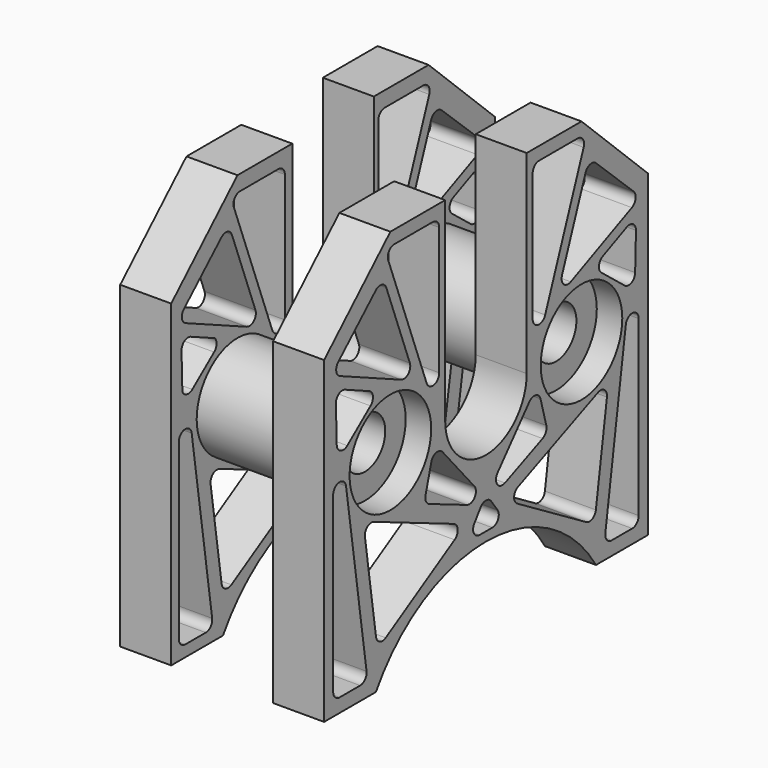
from build123d import *

# Parameters (mm, degrees)
F0_R      = 40
F1_DEPTH  = 80
F2_W      = 80
F2_H      = 250
F2_H_2    = 80.24207
F3_DEPTH  = 414.02
F4_R      = 40
F4_R_2    = 20
F5_DEPTH  = 140
F6_R      = 42.5
F6_R_2    = 20
F7_DEPTH  = 20
F9_DEPTH  = 49.53
F11_DEPTH = 60.96


with BuildPart() as f1:
    # F0 (on Right) → F1 (new body, symmetric)
    with BuildSketch(Plane.YZ):
        with BuildLine():
            Line((-158.75, 250), (-158.75, 0))
            Line((-158.75, 0), (-107.95, 0))
            ThreePointArc((-107.95, 0), (0, 60.098599), (107.95, 0))
            Line((107.95, 0), (158.75, 0))
            Line((158.75, 0), (158.75, 250))
            Line((158.75, 250), (93.75, 312.249498))
            Line((93.75, 312.249498), (40, 312.249498))
            Line((40, 312.249498), (40, 159.849498))
            ThreePointArc((40, 159.849498), (0, 119.849498), (-40, 159.849498))
            Line((-40, 159.849498), (-40, 312.249498))
            Line((-40, 312.249498), (-93.75, 312.249498))
            Line((-93.75, 312.249498), (-158.75, 250))
        make_face()
        with Locations((-93.75, 159.849498)):
            Circle(F0_R, mode=Mode.SUBTRACT)
        with Locations((93.75, 159.849498)):
            Circle(F0_R, mode=Mode.SUBTRACT)
    extrude(amount=F1_DEPTH, both=True)

    # F2 (on face) → F3 (cut)
    with BuildSketch(Plane(origin=(0, 158.75, 0), x_dir=(-1, 0, 0), z_dir=(0, 1, 0))):
        with Locations((0, 125)):
            Rectangle(F2_W, F2_H)
        with Locations((0, 290.121035)):
            Rectangle(F2_W, F2_H_2)
    extrude(amount=-F3_DEPTH, mode=Mode.SUBTRACT)

    # F4 (on face) → F5 (join)
    with BuildSketch(Plane(origin=(-80, 0, 0), x_dir=(0, -1, 0), z_dir=(-1, 0, 0))):
        with Locations((-93.75, 159.849498)):
            Circle(F4_R)
        with Locations((-93.75, 159.849498)):
            Circle(F4_R_2, mode=Mode.SUBTRACT)
        with Locations((93.75, 159.849498)):
            Circle(F4_R)
        with Locations((93.75, 159.849498)):
            Circle(F4_R_2, mode=Mode.SUBTRACT)
    extrude(amount=-F5_DEPTH)

    # F6 (on face) → F7 (cut)
    with BuildSketch(Plane(origin=(-80, 0, 0), x_dir=(0, -1, 0), z_dir=(-1, 0, 0))):
        with Locations((-93.75, 159.849498)):
            Circle(F6_R)
        with Locations((-93.75, 159.849498)):
            Circle(F6_R_2, mode=Mode.SUBTRACT)
        with Locations((93.75, 159.849498)):
            Circle(F6_R)
        with Locations((93.75, 159.849498)):
            Circle(F6_R_2, mode=Mode.SUBTRACT)
    extrude(amount=-F7_DEPTH, mode=Mode.SUBTRACT)

    # F8 (on face) → F9 (cut)
    with BuildSketch(Plane.YZ.offset(80)):
        with BuildLine():
            ThreePointArc((-97.73775, 275.188211), (-102.238909, 279.137541), (-108.022983, 277.587662))
            Line((-108.022983, 277.587662), (-144.907522, 243.032489))
            ThreePointArc((-144.907522, 243.032489), (-146.829156, 237.351179), (-143.163793, 232.604066))
            Line((-143.163793, 232.604066), (-83.177512, 205.711402))
            ThreePointArc((-83.177512, 205.711402), (-76.230658, 206.878958), (-74.636007, 213.740375))
            Line((-74.636007, 213.740375), (-97.73775, 275.188211))
        make_face()
        with BuildLine():
            Line((-52.169283, 302.053183), (-89.925854, 302.053183))
            ThreePointArc((-89.925854, 302.053183), (-95.146598, 299.317921), (-95.869672, 293.468563))
            Line((-95.869672, 293.468563), (-58.113101, 193.04066))
            ThreePointArc((-58.113101, 193.04066), (-51.033665, 189.02765), (-45.819283, 195.275279))
            Line((-45.819283, 195.275279), (-45.819283, 295.703183))
            ThreePointArc((-45.819283, 295.703183), (-47.679154, 300.193311), (-52.169283, 302.053183))
        make_face()
        with BuildLine():
            Line((-114.601368, 210.608313), (-138.238048, 221.204957))
            ThreePointArc((-138.238048, 221.204957), (-144.363109, 220.690768), (-147.183144, 215.229251))
            Line((-147.183144, 215.229251), (-146.360205, 186.426145))
            ThreePointArc((-146.360205, 186.426145), (-142.684959, 180.847112), (-136.051891, 181.644259))
            Line((-136.051891, 181.644259), (-113.238151, 199.850721))
            ThreePointArc((-113.238151, 199.850721), (-110.899434, 205.612257), (-114.601368, 210.608313))
        make_face()
        with BuildLine():
            ThreePointArc((-149.842629, 17.120415), (-147.982757, 12.630287), (-143.492629, 10.770415))
            Line((-143.492629, 10.770415), (-123.391565, 10.770415))
            ThreePointArc((-123.391565, 10.770415), (-118.584574, 12.971279), (-117.109719, 18.048263))
            Line((-117.109719, 18.048263), (-137.210783, 154.139243))
            ThreePointArc((-137.210783, 154.139243), (-143.957803, 159.544333), (-149.842629, 153.211395))
            Line((-149.842629, 153.211395), (-149.842629, 17.120415))
        make_face()
        with BuildLine():
            Line((-31.510889, 85.100057), (-109.942499, 118.393804))
            ThreePointArc((-109.942499, 118.393804), (-116.306981, 117.572871), (-118.705583, 111.62079))
            Line((-118.705583, 111.62079), (-107.845978, 38.097601))
            ThreePointArc((-107.845978, 38.097601), (-104.289383, 33.289989), (-98.315731, 33.569224))
            Line((-98.315731, 33.569224), (-30.743727, 73.798666))
            ThreePointArc((-30.743727, 73.798666), (-27.656707, 79.684953), (-31.510889, 85.100057))
        make_face()
        with BuildLine():
            ThreePointArc((-59.2358, 116.169693), (-58.829031, 111.721667), (-55.594038, 108.641859))
            Line((-55.594038, 108.641859), (-18.678619, 92.971486))
            ThreePointArc((-18.678619, 92.971486), (-11.071182, 95.069041), (-11.380489, 102.95429))
            Line((-11.380489, 102.95429), (-42.610901, 139.31163))
            ThreePointArc((-42.610901, 139.31163), (-48.818188, 141.369902), (-53.550793, 136.85666))
            Line((-53.550793, 136.85666), (-59.2358, 116.169693))
        make_face()
        with BuildLine():
            ThreePointArc((-11.390408, 77.229719), (-11.900998, 70.618936), (-6.245909, 67.157269))
            Line((-6.245909, 67.157269), (6.245909, 67.157269))
            ThreePointArc((6.245909, 67.157269), (11.900998, 70.618936), (11.390408, 77.229719))
            Line((11.390408, 77.229719), (5.144499, 85.861688))
            ThreePointArc((5.144499, 85.861688), (0, 88.489238), (-5.144499, 85.861688))
            Line((-5.144499, 85.861688), (-11.390408, 77.229719))
        make_face()
        with BuildLine():
            ThreePointArc((55.594038, 108.641859), (58.829031, 111.721667), (59.2358, 116.169693))
            Line((59.2358, 116.169693), (53.550793, 136.85666))
            ThreePointArc((53.550793, 136.85666), (48.818188, 141.369902), (42.610901, 139.31163))
            Line((42.610901, 139.31163), (11.380489, 102.95429))
            ThreePointArc((11.380489, 102.95429), (11.071182, 95.069041), (18.678619, 92.971486))
            Line((18.678619, 92.971486), (55.594038, 108.641859))
        make_face()
        with BuildLine():
            ThreePointArc((118.705583, 111.62079), (116.306981, 117.572871), (109.942499, 118.393804))
            Line((109.942499, 118.393804), (31.510889, 85.100057))
            ThreePointArc((31.510889, 85.100057), (27.656707, 79.684953), (30.743727, 73.798666))
            Line((30.743727, 73.798666), (98.315731, 33.569224))
            ThreePointArc((98.315731, 33.569224), (104.289383, 33.289989), (107.845978, 38.097601))
            Line((107.845978, 38.097601), (118.705583, 111.62079))
        make_face()
        with BuildLine():
            ThreePointArc((149.842629, 153.211395), (143.957803, 159.544333), (137.210783, 154.139243))
            Line((137.210783, 154.139243), (117.109719, 18.048263))
            ThreePointArc((117.109719, 18.048263), (118.584574, 12.971279), (123.391565, 10.770415))
            Line((123.391565, 10.770415), (143.492629, 10.770415))
            ThreePointArc((143.492629, 10.770415), (147.982757, 12.630287), (149.842629, 17.120415))
            Line((149.842629, 17.120415), (149.842629, 153.211395))
        make_face()
        with BuildLine():
            ThreePointArc((147.183144, 215.229251), (144.363109, 220.690768), (138.238048, 221.204957))
            Line((138.238048, 221.204957), (114.601368, 210.608313))
            ThreePointArc((114.601368, 210.608313), (110.899434, 205.612257), (113.238151, 199.850721))
            Line((113.238151, 199.850721), (136.051891, 181.644259))
            ThreePointArc((136.051891, 181.644259), (142.684959, 180.847112), (146.360205, 186.426145))
            Line((146.360205, 186.426145), (147.183144, 215.229251))
        make_face()
        with BuildLine():
            ThreePointArc((108.022983, 277.587662), (102.238909, 279.137541), (97.73775, 275.188211))
            Line((97.73775, 275.188211), (74.636007, 213.740375))
            ThreePointArc((74.636007, 213.740375), (76.230658, 206.878958), (83.177512, 205.711402))
            Line((83.177512, 205.711402), (143.163793, 232.604066))
            ThreePointArc((143.163793, 232.604066), (146.829156, 237.351179), (144.907522, 243.032489))
            Line((144.907522, 243.032489), (108.022983, 277.587662))
        make_face()
        with BuildLine():
            ThreePointArc((52.169283, 302.053183), (47.679154, 300.193311), (45.819283, 295.703183))
            Line((45.819283, 295.703183), (45.819283, 195.275279))
            ThreePointArc((45.819283, 195.275279), (51.033665, 189.02765), (58.113101, 193.04066))
            Line((58.113101, 193.04066), (95.869672, 293.468563))
            ThreePointArc((95.869672, 293.468563), (95.146598, 299.317921), (89.925854, 302.053183))
            Line((89.925854, 302.053183), (52.169283, 302.053183))
        make_face()
    extrude(amount=-F9_DEPTH, mode=Mode.SUBTRACT)

    # F10 (on face) → F11 (cut)
    with BuildSketch(Plane(origin=(-80, 0, 0), x_dir=(0, -1, 0), z_dir=(-1, 0, 0))):
        with BuildLine():
            Line((-50.728942, 300.188265), (-88.485513, 300.188265))
            ThreePointArc((-88.485513, 300.188265), (-93.706257, 297.453004), (-94.429331, 291.603646))
            Line((-94.429331, 291.603646), (-56.67276, 191.175742))
            ThreePointArc((-56.67276, 191.175742), (-49.593324, 187.162732), (-44.378942, 193.410362))
            Line((-44.378942, 193.410362), (-44.378942, 293.838265))
            ThreePointArc((-44.378942, 293.838265), (-46.238814, 298.328394), (-50.728942, 300.188265))
        make_face()
        with BuildLine():
            ThreePointArc((-96.297409, 273.323293), (-100.798568, 277.272623), (-106.582643, 275.722744))
            Line((-106.582643, 275.722744), (-143.467181, 241.167571))
            ThreePointArc((-143.467181, 241.167571), (-145.388815, 235.486261), (-141.723452, 230.739148))
            Line((-141.723452, 230.739148), (-81.737171, 203.846484))
            ThreePointArc((-81.737171, 203.846484), (-74.790317, 205.01404), (-73.195666, 211.875457))
            Line((-73.195666, 211.875457), (-96.297409, 273.323293))
        make_face()
        with BuildLine():
            Line((-118.05674, 210.93821), (-136.797707, 219.340039))
            ThreePointArc((-136.797707, 219.340039), (-142.922768, 218.82585), (-145.742803, 213.364333))
            Line((-145.742803, 213.364333), (-145.090314, 190.527028))
            ThreePointArc((-145.090314, 190.527028), (-141.415068, 184.947996), (-134.782001, 185.745142))
            Line((-134.782001, 185.745142), (-116.693523, 200.180618))
            ThreePointArc((-116.693523, 200.180618), (-114.354806, 205.942154), (-118.05674, 210.93821))
        make_face()
        with BuildLine():
            ThreePointArc((-149.34567, 15.255497), (-147.485798, 10.765369), (-142.99567, 8.905497))
            Line((-142.99567, 8.905497), (-121.951225, 8.905497))
            ThreePointArc((-121.951225, 8.905497), (-117.119279, 11.135449), (-115.681035, 16.259104))
            Line((-115.681035, 16.259104), (-136.725481, 147.737576))
            ThreePointArc((-136.725481, 147.737576), (-143.499058, 153.063985), (-149.34567, 146.733969))
            Line((-149.34567, 146.733969), (-149.34567, 15.255497))
        make_face()
        with BuildLine():
            Line((-30.070549, 83.235139), (-109.476904, 116.94266))
            ThreePointArc((-109.476904, 116.94266), (-115.871638, 116.098199), (-118.228331, 110.093888))
            Line((-118.228331, 110.093888), (-106.393979, 36.156925))
            ThreePointArc((-106.393979, 36.156925), (-102.814377, 31.408728), (-96.87539, 31.704306))
            Line((-96.87539, 31.704306), (-29.303386, 71.933748))
            ThreePointArc((-29.303386, 71.933748), (-26.216366, 77.820035), (-30.070549, 83.235139))
        make_face()
        with BuildLine():
            ThreePointArc((-57.795459, 114.304775), (-57.38869, 109.856749), (-54.153697, 106.776942))
            Line((-54.153697, 106.776942), (-17.238278, 91.106568))
            ThreePointArc((-17.238278, 91.106568), (-9.630842, 93.204123), (-9.940148, 101.089372))
            Line((-9.940148, 101.089372), (-41.17056, 137.446713))
            ThreePointArc((-41.17056, 137.446713), (-47.377847, 139.504984), (-52.110452, 134.991742))
            Line((-52.110452, 134.991742), (-57.795459, 114.304775))
        make_face()
        with BuildLine():
            ThreePointArc((-9.950067, 75.364801), (-10.460657, 68.754018), (-4.805568, 65.292351))
            Line((-4.805568, 65.292351), (7.68625, 65.292351))
            ThreePointArc((7.68625, 65.292351), (13.341339, 68.754018), (12.830749, 75.364801))
            Line((12.830749, 75.364801), (6.584839, 83.99677))
            ThreePointArc((6.584839, 83.99677), (1.440341, 86.62432), (-3.704158, 83.99677))
            Line((-3.704158, 83.99677), (-9.950067, 75.364801))
        make_face()
        with BuildLine():
            ThreePointArc((120.145924, 109.755872), (117.747321, 115.707953), (111.382839, 116.528886))
            Line((111.382839, 116.528886), (32.95123, 83.235139))
            ThreePointArc((32.95123, 83.235139), (29.097048, 77.820035), (32.184068, 71.933748))
            Line((32.184068, 71.933748), (99.756072, 31.704306))
            ThreePointArc((99.756072, 31.704306), (105.729724, 31.425071), (109.286318, 36.232683))
            Line((109.286318, 36.232683), (120.145924, 109.755872))
        make_face()
        with BuildLine():
            ThreePointArc((57.034378, 106.776942), (60.269372, 109.856749), (60.676141, 114.304775))
            Line((60.676141, 114.304775), (54.991134, 134.991742))
            ThreePointArc((54.991134, 134.991742), (50.258529, 139.504984), (44.051241, 137.446713))
            Line((44.051241, 137.446713), (12.82083, 101.089372))
            ThreePointArc((12.82083, 101.089372), (12.511523, 93.204123), (20.118959, 91.106568))
            Line((20.118959, 91.106568), (57.034378, 106.776942))
        make_face()
        with BuildLine():
            ThreePointArc((151.28297, 151.346477), (145.398144, 157.679416), (138.651123, 152.274325))
            Line((138.651123, 152.274325), (118.550059, 16.183346))
            ThreePointArc((118.550059, 16.183346), (120.024914, 11.106361), (124.831906, 8.905497))
            Line((124.831906, 8.905497), (144.93297, 8.905497))
            ThreePointArc((144.93297, 8.905497), (149.423098, 10.765369), (151.28297, 15.255497))
            Line((151.28297, 15.255497), (151.28297, 151.346477))
        make_face()
        with BuildLine():
            ThreePointArc((148.623485, 213.364333), (145.80345, 218.82585), (139.678388, 219.340039))
            Line((139.678388, 219.340039), (116.041709, 208.743395))
            ThreePointArc((116.041709, 208.743395), (114.274196, 203.922496), (116.649963, 199.370474))
            Line((116.649963, 199.370474), (138.078821, 182.269214))
            ThreePointArc((138.078821, 182.269214), (143.496865, 181.051899), (147.800545, 184.561227))
            Line((147.800545, 184.561227), (148.623485, 213.364333))
        make_face()
        with BuildLine():
            ThreePointArc((109.463324, 275.722744), (103.67925, 277.272623), (99.17809, 273.323293))
            Line((99.17809, 273.323293), (76.076347, 211.875457))
            ThreePointArc((76.076347, 211.875457), (77.670999, 205.01404), (84.617852, 203.846484))
            Line((84.617852, 203.846484), (144.604134, 230.739148))
            ThreePointArc((144.604134, 230.739148), (148.269496, 235.486261), (146.347863, 241.167571))
            Line((146.347863, 241.167571), (109.463324, 275.722744))
        make_face()
        with BuildLine():
            ThreePointArc((53.609623, 300.188265), (49.119495, 298.328394), (47.259623, 293.838265))
            Line((47.259623, 293.838265), (47.259623, 193.410362))
            ThreePointArc((47.259623, 193.410362), (52.474006, 187.162732), (59.553441, 191.175742))
            Line((59.553441, 191.175742), (97.310013, 291.603646))
            ThreePointArc((97.310013, 291.603646), (96.586939, 297.453004), (91.366195, 300.188265))
            Line((91.366195, 300.188265), (53.609623, 300.188265))
        make_face()
    extrude(amount=-F11_DEPTH, mode=Mode.SUBTRACT)


solid = f1.part
